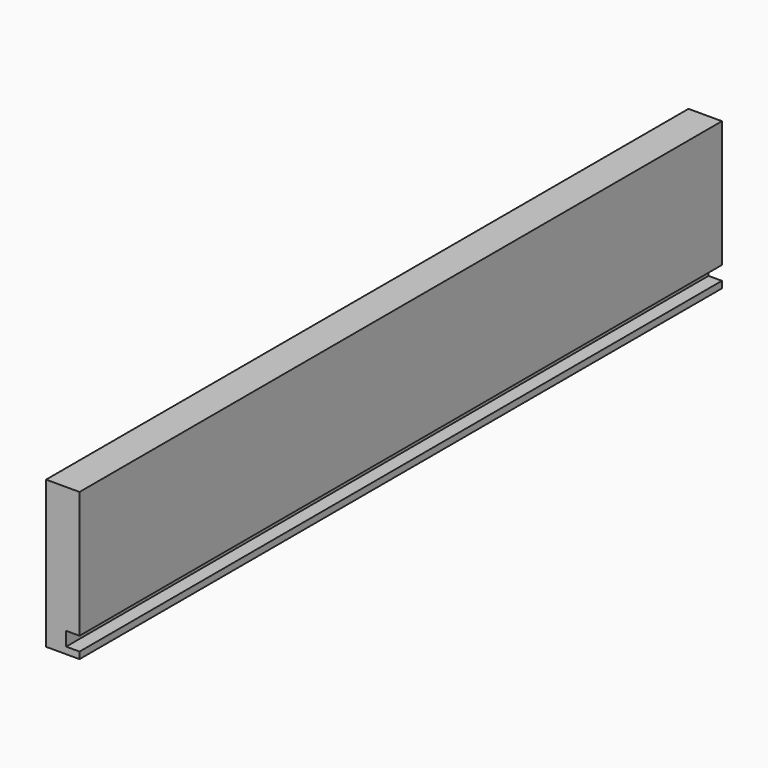
from build123d import *

# Parameters (mm, degrees)
F0_W     = 381
F0_H     = 69.85
F1_DEPTH = 15.875
F2_W     = 6.35
F2_H     = 6.604
F3_DEPTH = 381


with BuildPart() as f1:
    # F0 (on Right) → F1 (new body)
    with BuildSketch(Plane.YZ):
        with Locations((190.5, 34.925)):
            Rectangle(F0_W, F0_H)
    extrude(amount=F1_DEPTH)

    # F2 (on face) → F3 (cut, through all)
    with BuildSketch(Plane.XZ):
        with Locations((12.7, 6.477)):
            Rectangle(F2_W, F2_H)
    extrude(amount=-F3_DEPTH, mode=Mode.SUBTRACT)


solid = f1.part
